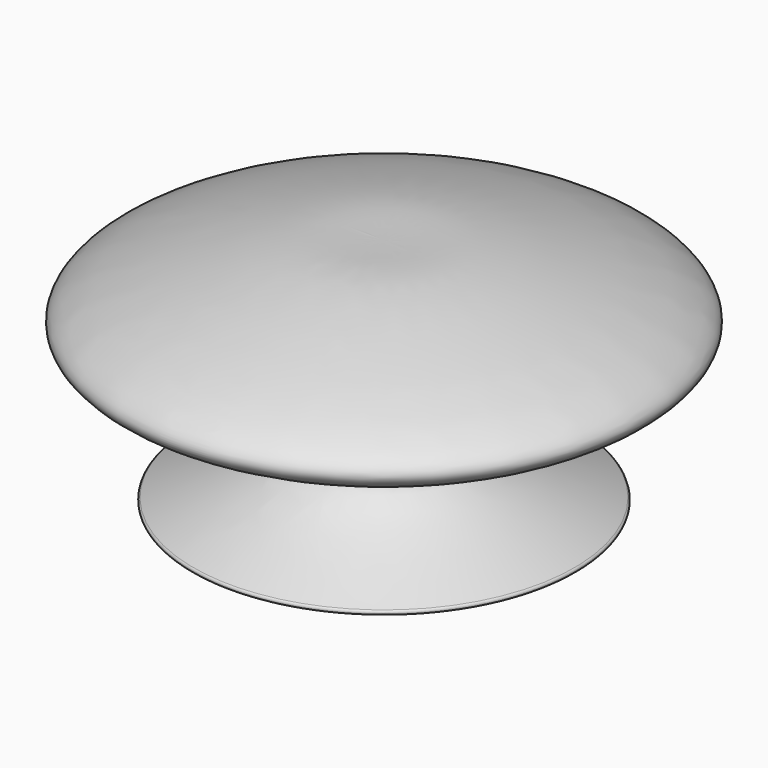
from build123d import *

# Parameters (mm, degrees)
F2_R = 0.2
F3_R = 0.2


with BuildPart() as f1:
    # F0 (on Front) → F1 (revolve)
    with BuildSketch(Plane.XZ):
        with BuildLine():
            Line((-17, 0), (-1.75, 0))
            Line((-1.75, 0), (-1.75, 6.2019815668))
            ThreePointArc((-1.75, 6.2019815668), (-1.2374368671, 7.4394184339), (0, 7.9519815668))
            Line((0, 7.9519815668), (0, 19.6482483298))
            add(Edge.make_bspline(
                [(-17, 0), (-11.9567187165, 2.4561246389), (-0.8660281161, 7.8443751431), (-32.9311291936, 12.8137520603), (-6.0983324857, 20.3302481039), (-3.8674364332, 19.6151528507), (0, 19.6482483298)],
                knots=[0, 0, 0, 0, 0.2360796762, 0.5149864125, 0.7921078463, 1, 1, 1, 1], degree=3))
        make_face()
    revolve(axis=Axis((0, 0, 9.8241241649), (0, 0, -1)))

    # F2
    f2_edges = [f1.edges().sort_by_distance(p)[0] for p in [
        (17, 0, 0),
    ]]
    fillet(f2_edges, radius=F2_R)

    # F3
    f3_edges = [f1.edges().sort_by_distance(p)[0] for p in [
        (1.75, 0, 0),
    ]]
    fillet(f3_edges, radius=F3_R)


solid = f1.part
